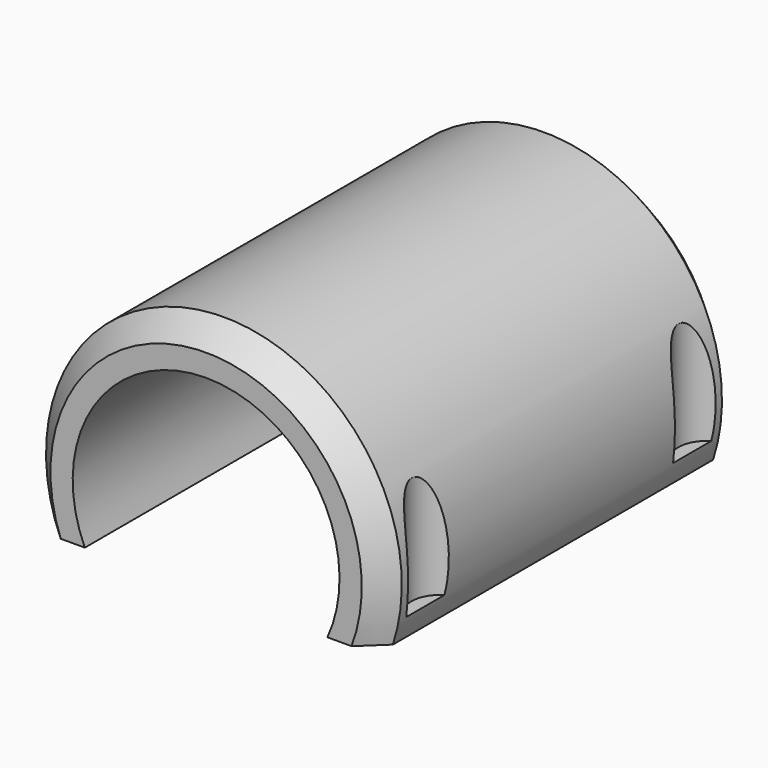
from build123d import *

# Parameters (mm, degrees)
CYLINDER1807_R     = 2.5
CYLINDER1807_DEPTH = 30
CYLINDER1806_R     = 2.5
CYLINDER1806_DEPTH = 30
CYLINDER1808_R     = 2.5
CYLINDER1808_DEPTH = 30
CYLINDER1809_R     = 2.5
CYLINDER1809_DEPTH = 30
BOX716_W           = 100
BOX716_H           = 100
BOX716_DEPTH       = 100
TUBE090_R          = 16
TUBE090_R_2        = 12
TUBE090_DEPTH      = 40
CHAMFER057_SIZE    = 2


with BuildPart() as obj1:
    # Cylinder1807 → Cylinder1807 (new body)
    with BuildSketch(Plane(origin=(58, -19, 26), x_dir=(1, 0, 0), z_dir=(0, 0, 1))):
        Circle(CYLINDER1807_R)
    extrude(amount=CYLINDER1807_DEPTH)


with BuildPart() as compound914:
    # Cylinder1806 → Cylinder1806 (new body)
    with BuildSketch(Plane(origin=(58, 11, 26), x_dir=(1, 0, 0), z_dir=(0, 0, 1))):
        Circle(CYLINDER1806_R)
    extrude(amount=CYLINDER1806_DEPTH)

    # Compound914: union obj1
    add(obj1.part)


with BuildPart() as compound914_1:
    # Compound914 placement: moved
    add(compound914.part.moved(Location((34, 0, 13))))


with BuildPart() as obj2:
    # Cylinder1808 → Cylinder1808 (new body)
    with BuildSketch(Plane(origin=(58, -19, 26), x_dir=(1, 0, 0), z_dir=(0, 0, 1))):
        Circle(CYLINDER1808_R)
    extrude(amount=CYLINDER1808_DEPTH)


with BuildPart() as compound915:
    # Cylinder1809 → Cylinder1809 (new body)
    with BuildSketch(Plane(origin=(58, 11, 26), x_dir=(1, 0, 0), z_dir=(0, 0, 1))):
        Circle(CYLINDER1809_R)
    extrude(amount=CYLINDER1809_DEPTH)

    # Compound916: union obj2
    add(obj2.part)


with BuildPart() as compound915_1:
    # Compound916 placement: moved
    add(compound915.part.moved(Location((0, 0, 13))))

    # Compound915: union Compound914
    add(compound914_1.part)


with BuildPart() as krychle716:
    # Box716 → Box716 (new body)
    with BuildSketch(Plane(origin=(32, -54, -63), x_dir=(1, 0, 0), z_dir=(0, 0, 1))):
        with Locations((50, 50)):
            Rectangle(BOX716_W, BOX716_H)
    extrude(amount=BOX716_DEPTH)


with BuildPart() as cut541:
    # Tube090 → Tube090 (new body)
    with BuildSketch(Plane(origin=(75, 16, 42), x_dir=(1, 0, 0), z_dir=(0, -1, 0))):
        Circle(TUBE090_R)
        Circle(TUBE090_R_2, mode=Mode.SUBTRACT)
    extrude(amount=TUBE090_DEPTH)

    # Chamfer057
    chamfer057_edges = [cut541.edges().sort_by_distance(p)[0] for p in [
        (59, -24, 42),
        (59, 16, 42),
    ]]
    chamfer(chamfer057_edges, length=CHAMFER057_SIZE)

    # Cut533: cut Krychle716
    add(krychle716.part, mode=Mode.SUBTRACT)

    # Cut541: cut Compound915
    add(compound915_1.part, mode=Mode.SUBTRACT)


solid = cut541.part
